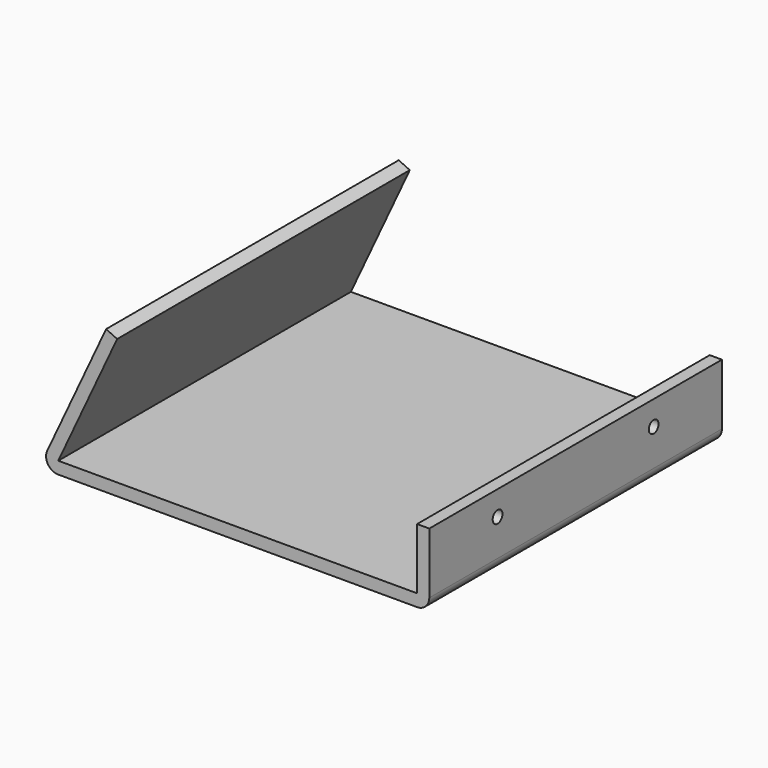
from build123d import *

# Parameters (mm, degrees)
F1_DEPTH = 150
F2_R     = 5
F3_R     = 2.5
F4_DEPTH = 25


with BuildPart() as f1:
    # F0 (on Front) → F1 (new body)
    with BuildSketch(Plane.XZ):
        Polygon((-47.536419, 35.607496), (-75.006606, -23.30251), (84.993394, -23.30251), (84.993394, 6.69749), (79.993394, 6.69749), (79.993394, -18.30251), (-67.158178, -18.30251), (-43.00488, 33.494404), align=None)
    extrude(amount=F1_DEPTH)

    # F2
    f2_edges = [f1.edges().sort_by_distance(p)[0] for p in [
        (-75.006606, -75, -23.30251),
        (84.993394, -75, -23.30251),
    ]]
    fillet(f2_edges, radius=F2_R)

    # F3 (on face) → F4 (cut)
    with BuildSketch(Plane.YZ.offset(84.993394)):
        with Locations((-115, -3.30251)):
            Circle(F3_R)
        with Locations((-35, -3.30251)):
            Circle(F3_R)
    extrude(amount=-F4_DEPTH, mode=Mode.SUBTRACT)


solid = f1.part
